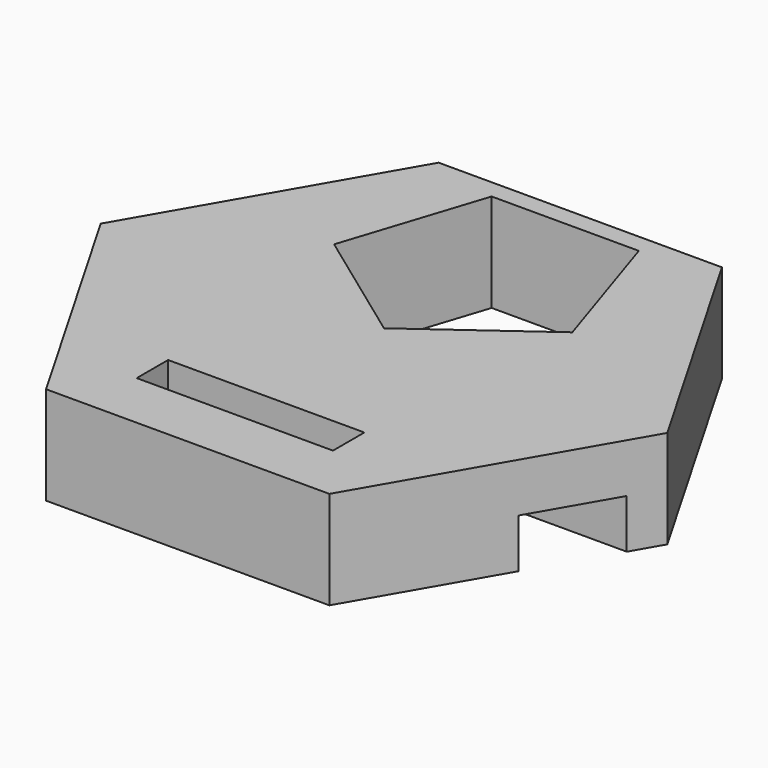
from build123d import *

# Parameters (mm, degrees)
SKETCH001_W           = 80
SKETCH001_H           = 8
EXTRUDE001_DEPTH      = 5
EXTRUDE001_DEPTH_BACK = 1
SKETCH_W              = 20
SKETCH_H              = 4
EXTRUDE_DEPTH         = 10


with BuildPart() as extrude001:
    # Sketch001 → Extrude001 (new body, two sides)
    with BuildSketch(Plane.XY) as extrude001_sk:
        with Locations((0, -7)):
            Rectangle(SKETCH001_W, SKETCH001_H)
    extrude(amount=EXTRUDE001_DEPTH)
    extrude(extrude001_sk.sketch, amount=-EXTRUDE001_DEPTH_BACK)


with BuildPart() as cut:
    # Sketch → Extrude (new body)
    with BuildSketch(Plane.XY):
        Polygon((28.867513, 0), (14.433757, 25), (-14.433757, 25), (-28.867513, 0), (-14.433757, -25), (14.433757, -25), align=None)
        Polygon((7.5, 23.082627), (-7.5, 23.082627), (-12.135255, 8.816779), (0, 0), (12.135255, 8.816779), align=None, mode=Mode.SUBTRACT)
        with Locations((0, -17)):
            Rectangle(SKETCH_W, SKETCH_H, mode=Mode.SUBTRACT)
    extrude(amount=EXTRUDE_DEPTH)

    # Cut: cut Extrude001
    add(extrude001.part, mode=Mode.SUBTRACT)


solid = cut.part
